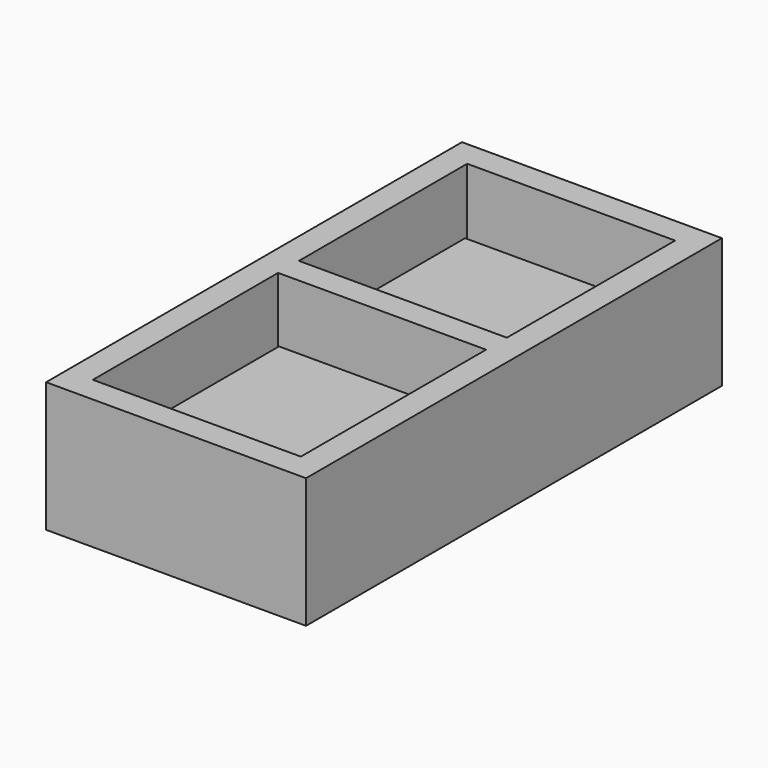
from build123d import *

# Parameters (mm, degrees)
F0_W     = 500
F0_H     = 1000
F0_W_2   = 400
F0_H_2   = 445.4466052353
F0_H_3   = 404.5533947647
F1_DEPTH = 125
F2_W     = 401.6181921197
F2_H     = 400
F2_W_2   = 400
F2_H_2   = 450
F3_DEPTH = 1


with BuildPart() as f1:
    # F0 (on Top) → F1 (new body, symmetric)
    with BuildSketch(Plane.XY):
        Rectangle(F0_W, F0_H)
        with Locations((0, -227.2766973823)):
            Rectangle(F0_W_2, F0_H_2, mode=Mode.SUBTRACT)
        with Locations((0, 247.7233026177)):
            Rectangle(F0_W_2, F0_H_3, mode=Mode.SUBTRACT)
    extrude(amount=F1_DEPTH, both=True)

    # F2 (on Top) → F3 (join, symmetric)
    with BuildSketch(Plane.XY):
        with Locations((0.8090960599, 245.0032802157)):
            Rectangle(F2_W, F2_H)
        with Locations((1.6181921197, -225)):
            Rectangle(F2_W_2, F2_H_2)
    extrude(amount=F3_DEPTH, both=True)


solid = f1.part
